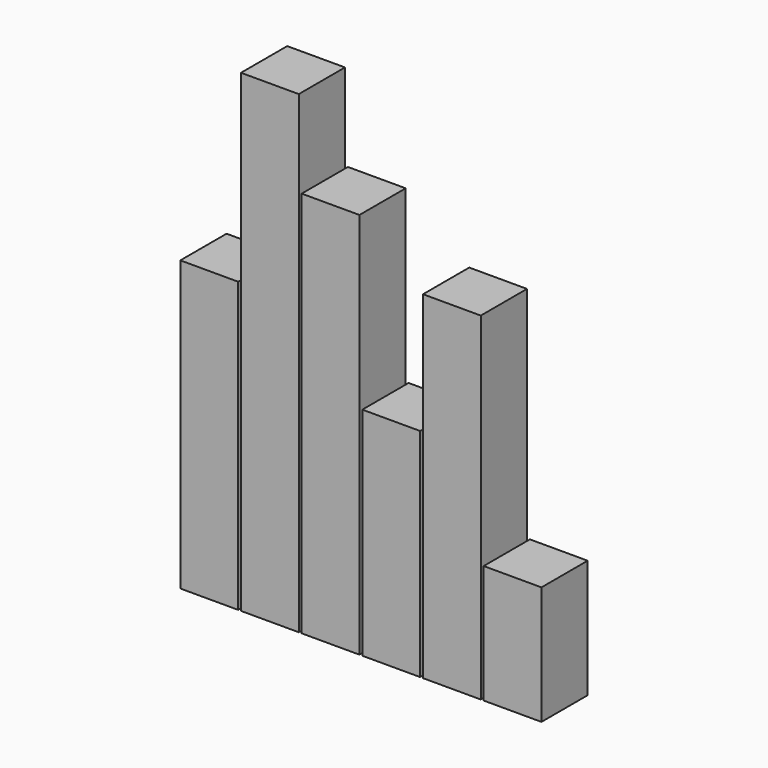
from build123d import *

# Parameters (mm, degrees)
F0_W     = 5.08
F0_H     = 5.08
F2_DEPTH = 25.4
F1_W     = 5.08
F1_H     = 5.08
F3_DEPTH = 41.656
F4_DEPTH = 34.036
F5_DEPTH = 19.05
F6_DEPTH = 29.718
F7_DEPTH = 10.414


with BuildPart() as f2:
    # F0 (on Top) → F2 (new body)
    with BuildSketch(Plane.XY):
        with Locations((2.54, -2.54)):
            Rectangle(F0_W, F0_H)
    extrude(amount=F2_DEPTH)


with BuildPart() as f3:
    # F1 (on Top) → F3 (new body)
    with BuildSketch(Plane.XY):
        with Locations((7.874, -2.54)):
            Rectangle(F1_W, F1_H)
    extrude(amount=F3_DEPTH)


with BuildPart() as f4:
    # F1 (on Top) → F4 (new body)
    with BuildSketch(Plane.XY):
        with Locations((13.208, -2.54)):
            Rectangle(F1_W, F1_H)
    extrude(amount=F4_DEPTH)


with BuildPart() as f5:
    # F1 (on Top) → F5 (new body)
    with BuildSketch(Plane.XY):
        with Locations((18.542, -2.54)):
            Rectangle(F1_W, F1_H)
    extrude(amount=F5_DEPTH)


with BuildPart() as f6:
    # F1 (on Top) → F6 (new body)
    with BuildSketch(Plane.XY):
        with Locations((23.876, -2.54)):
            Rectangle(F1_W, F1_H)
    extrude(amount=F6_DEPTH)


with BuildPart() as f7:
    # F1 (on Top) → F7 (new body)
    with BuildSketch(Plane.XY):
        with Locations((29.21, -2.54)):
            Rectangle(F1_W, F1_H)
    extrude(amount=F7_DEPTH)


solid = Compound([f2.part, f3.part, f4.part, f5.part, f6.part, f7.part])
